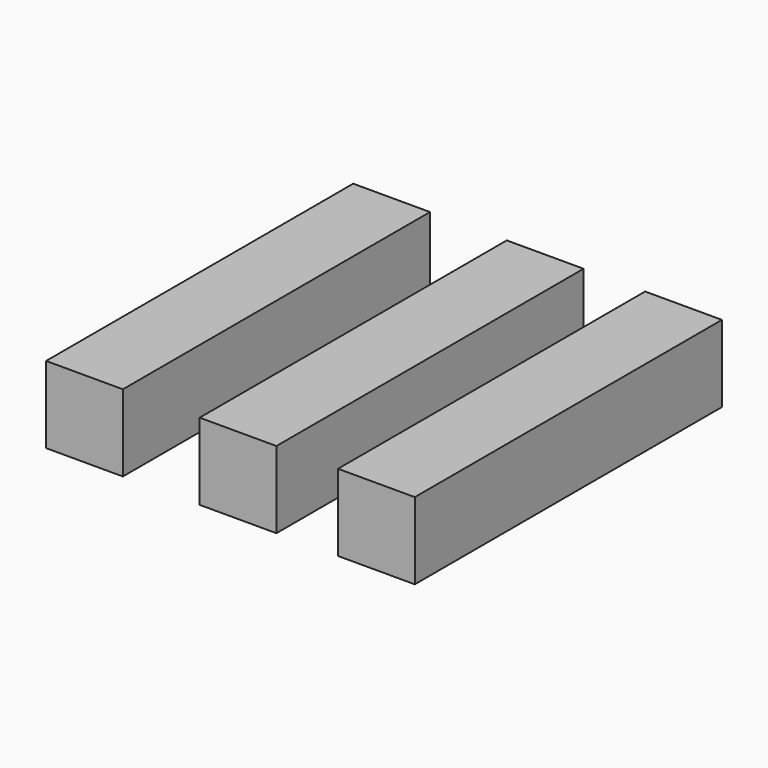
from build123d import *

# Parameters (mm, degrees)
F0_W     = 25.4
F0_H     = 25.4
F1_DEPTH = 63.5


with BuildPart() as f1:
    # F0 (on Front) → F1 (new body, symmetric)
    with BuildSketch(Plane.XZ):
        with Locations((-38.1, 12.7)):
            Rectangle(F0_W, F0_H)
        with Locations((12.7, 12.7)):
            Rectangle(F0_W, F0_H)
        with Locations((58.472919, 12.7)):
            Rectangle(F0_W, F0_H)
    extrude(amount=F1_DEPTH, both=True)


solid = f1.part
